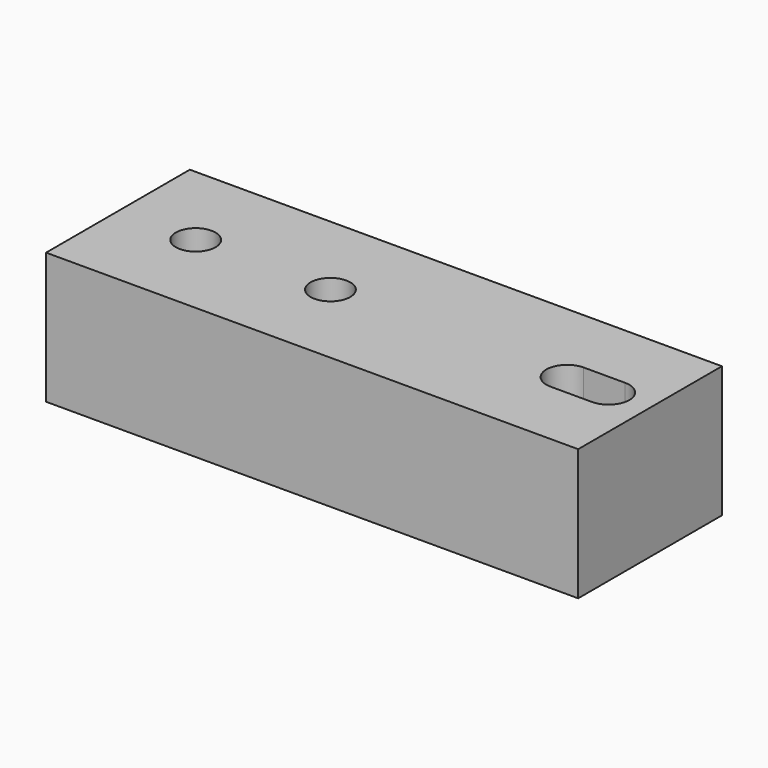
from build123d import *

# Parameters (mm, degrees)
SKETCH_W        = 77
SKETCH_H        = 26
PAD_DEPTH       = 19
SKETCH001_R     = 2.875
POCKET_DEPTH    = 17
POCKET001_DEPTH = 8


with BuildPart() as part:
    # Sketch → Pad (new body)
    with BuildSketch(Plane.XY):
        with Locations((17.5, 0)):
            Rectangle(SKETCH_W, SKETCH_H)
    extrude(amount=PAD_DEPTH)

    # Sketch001 (on Face6 of Pad) → Pocket (cut)
    with BuildSketch(Plane.XY.offset(19)):
        with Locations((-9.75, 0)):
            Circle(SKETCH001_R)
        with Locations((9.75, 0)):
            Circle(SKETCH001_R)
    extrude(amount=-POCKET_DEPTH, mode=Mode.SUBTRACT)

    # Sketch002 (on Face5 of Pocket) → Pocket001 (cut)
    with BuildSketch(Plane.XY.offset(19)):
        with BuildLine():
            Line((44, 3), (50, 3))
            ThreePointArc((50, -3), (53, 0), (50, 3))
            Line((44, -3), (50, -3))
            ThreePointArc((44, 3), (41, 0), (44, -3))
        make_face()
    extrude(amount=-POCKET001_DEPTH, mode=Mode.SUBTRACT)


solid = part.part
